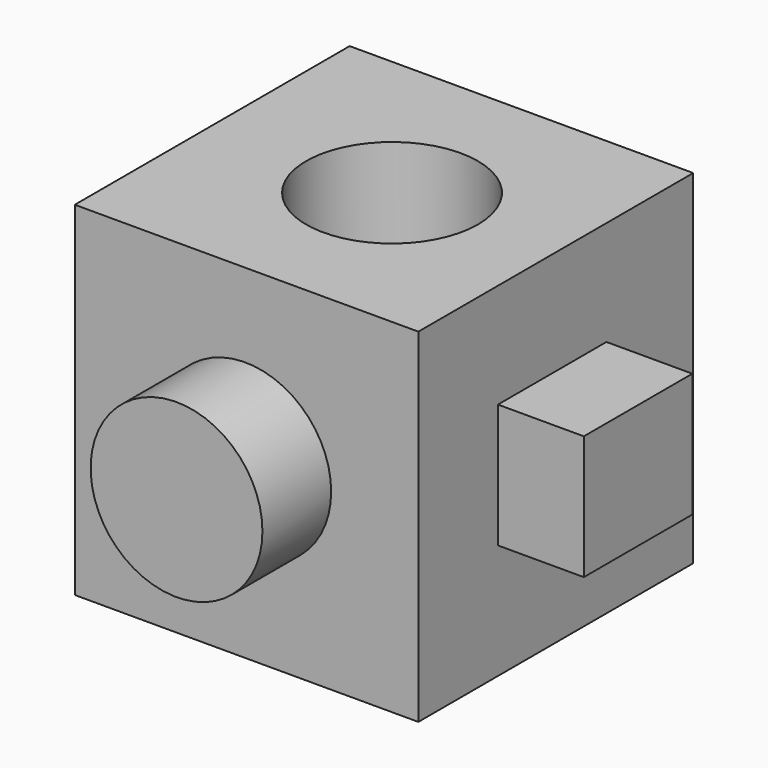
from build123d import *

# Parameters (mm, degrees)
F0_W     = 50.8
F0_H     = 50.8
F1_DEPTH = 50.8
F2_R     = 12.7
F3_DEPTH = 12.7
F4_W     = 20.050239
F4_H     = 18.331647
F5_DEPTH = 12.7
F6_R     = 12.7
F7_DEPTH = 50.8


with BuildPart() as f1:
    # F0 (on Front) → F1 (new body)
    with BuildSketch(Plane.XZ):
        with Locations((25.4, 25.4)):
            Rectangle(F0_W, F0_H)
    extrude(amount=F1_DEPTH)

    # F2 (on face) → F3 (join)
    with BuildSketch(Plane.XZ.offset(50.8)):
        with Locations((25.206016, 25.778878)):
            Circle(F2_R)
    extrude(amount=F3_DEPTH)

    # F4 (on face) → F5 (join)
    with BuildSketch(Plane.YZ.offset(50.8)):
        with Locations((-26.06531, 26.160787)):
            Rectangle(F4_W, F4_H)
    extrude(amount=F5_DEPTH)

    # F6 (on face) → F7 (cut)
    with BuildSketch(Plane.XY.offset(50.8)):
        with Locations((26.733654, -25.587924)):
            Circle(F6_R)
    extrude(amount=-F7_DEPTH, mode=Mode.SUBTRACT)


solid = f1.part
